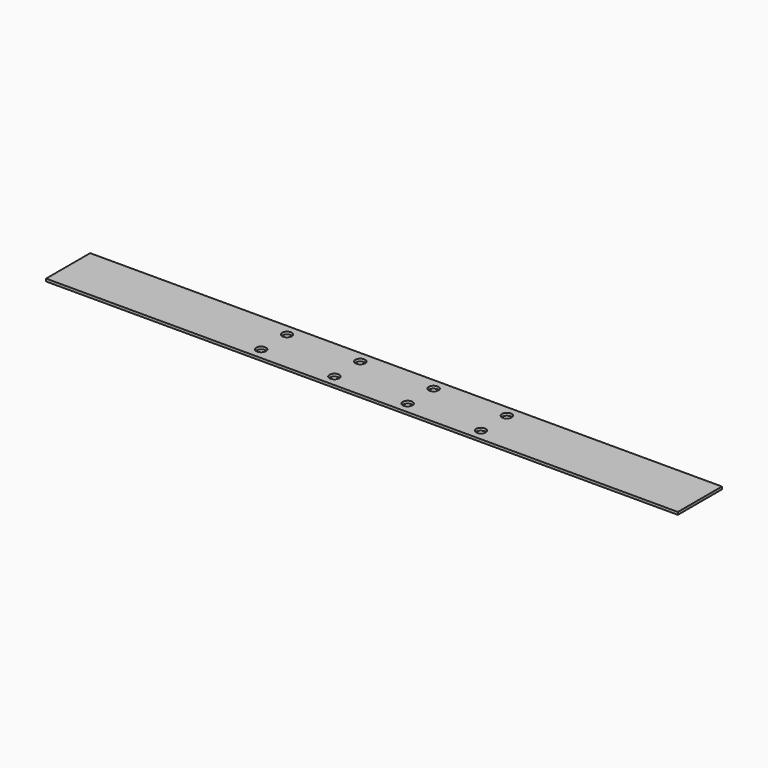
from build123d import *

# Parameters (mm, degrees)
F0_W     = 95
F0_H     = 17
F0_R     = 1.5
F1_DEPTH = 0.8
F2_W     = 50
F2_H     = 17
F3_DEPTH = 0.8


with BuildPart() as f1:
    # F0 (on Top) → F1 (new body)
    with BuildSketch(Plane.XY):
        with Locations((-47.5, 8.5)):
            Rectangle(F0_W, F0_H)
        with Locations((-81.43, 3.5)):
            Circle(F0_R, mode=Mode.SUBTRACT)
        with Locations((-58.81, 3.5)):
            Circle(F0_R, mode=Mode.SUBTRACT)
        with Locations((-36.19, 3.5)):
            Circle(F0_R, mode=Mode.SUBTRACT)
        with Locations((-13.57, 3.5)):
            Circle(F0_R, mode=Mode.SUBTRACT)
        with Locations((-81.43, 13.5)):
            Circle(F0_R, mode=Mode.SUBTRACT)
        with Locations((-58.81, 13.5)):
            Circle(F0_R, mode=Mode.SUBTRACT)
        with Locations((-36.19, 13.5)):
            Circle(F0_R, mode=Mode.SUBTRACT)
        with Locations((-13.57, 13.5)):
            Circle(F0_R, mode=Mode.SUBTRACT)
    extrude(amount=F1_DEPTH)

    # F2 (on face) → F3 (join, through all)
    with BuildSketch(Plane.XY.offset(0.8)):
        with Locations((25, 8.5)):
            Rectangle(F2_W, F2_H)
        with Locations((-120, 8.5)):
            Rectangle(F2_W, F2_H)
    extrude(amount=-F3_DEPTH)


solid = f1.part
